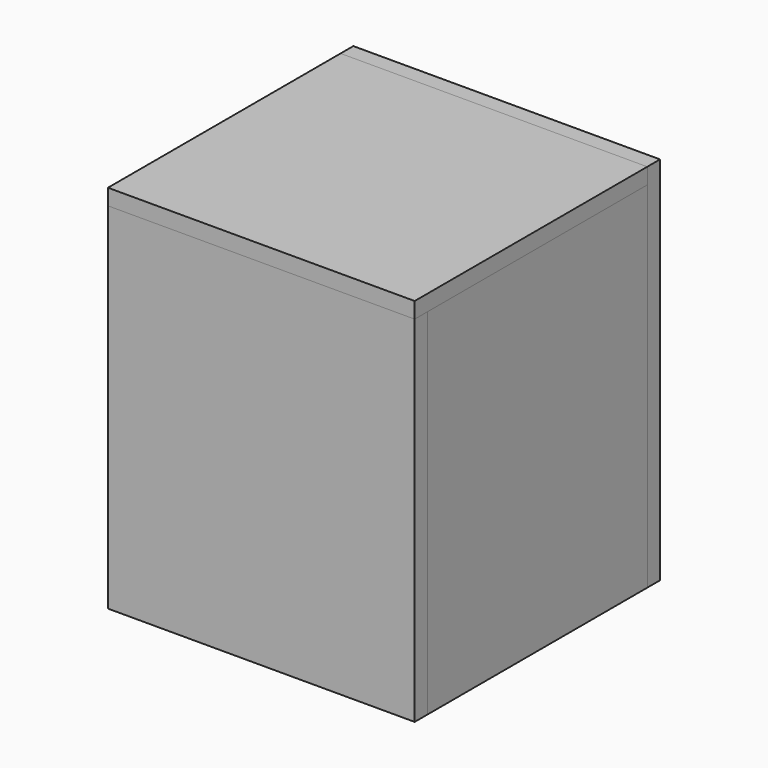
from build123d import *

# Parameters (mm, degrees)
F0_W      = 300
F0_H      = 300
F1_DEPTH  = 40
F0_W_2    = 310
F0_H_2    = 310
F2_DEPTH  = 18
F3_W      = 310
F3_H      = 18
F3_H_2    = 382
F4_DEPTH  = 18
F6_W      = 310
F6_H      = 18
F7_DEPTH  = 18
F8_W      = 346
F8_H      = 18
F8_H_2    = 310
F9_DEPTH  = 18
F10_W     = 18
F10_H     = 400
F11_DEPTH = 18


with BuildPart() as f1:
    # F0 (on Top) → F1 (new body)
    with BuildSketch(Plane.XY):
        Rectangle(F0_W, F0_H)
    extrude(amount=F1_DEPTH)


with BuildPart() as f2:
    # F0 (on Top) → F2 (new body)
    with BuildSketch(Plane.XY):
        Rectangle(F0_W_2, F0_H_2)
        Rectangle(F0_W, F0_H, mode=Mode.SUBTRACT)
        Rectangle(F0_W, F0_H)
    extrude(amount=-F2_DEPTH)


with BuildPart() as f4:
    # F3 (on face) → F4 (new body)
    with BuildSketch(Plane(origin=(-155, 0, 0), x_dir=(0, -1, 0), z_dir=(-1, 0, 0))):
        with Locations((0, -9)):
            Rectangle(F3_W, F3_H)
        with Locations((0, 191)):
            Rectangle(F3_W, F3_H_2)
    extrude(amount=F4_DEPTH)


with BuildPart() as f5_1:
    # F5: instance of F4
    add(f4.part.mirror(Plane.YZ))


with BuildPart() as f7:
    # F6 (on face) → F7 (new body)
    with BuildSketch(Plane.XZ.offset(155)):
        Polygon((-173, 382), (-173, -18), (-155, -18), (-155, 0), (155, 0), (155, -18), (173, -18), (173, 382), align=None)
        with Locations((0, -9)):
            Rectangle(F6_W, F6_H)
    extrude(amount=F7_DEPTH)


with BuildPart() as f9:
    # F8 (on face) → F9 (new body)
    with BuildSketch(Plane.XY.offset(382)):
        with Locations((0, -164)):
            Rectangle(F8_W, F8_H)
        Rectangle(F8_W, F8_H_2)
    extrude(amount=F9_DEPTH)


with BuildPart() as f11:
    # F10 (on face) → F11 (new body)
    with BuildSketch(Plane(origin=(0, 155, 0), x_dir=(-1, 0, 0), z_dir=(0, 1, 0))):
        with Locations((164, 182)):
            Rectangle(F10_W, F10_H)
        Polygon((-173, -18), (155, -18), (155, 382), (173, 382), (173, 400), (-173, 400), align=None)
    extrude(amount=F11_DEPTH)


solid = Compound([f1.part, f2.part, f4.part, f5_1.part, f7.part, f9.part, f11.part])
